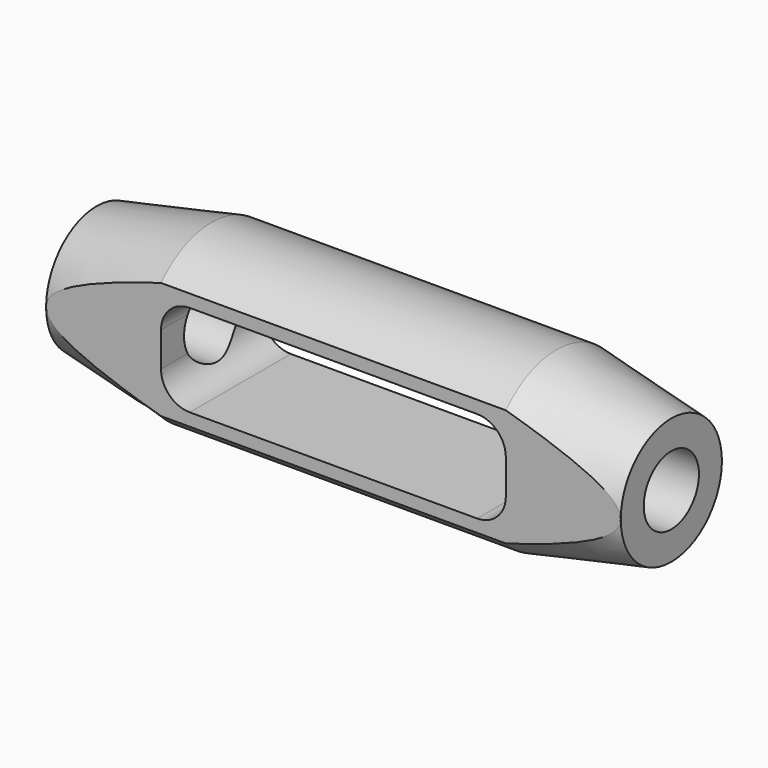
from build123d import *

# Parameters (mm, degrees)
SKETCH032_R      = 6
EXTRUDE029_DEPTH = 150
EXTRUDE028_DEPTH = 30
SKETCH030_W      = 15
SKETCH030_H      = 79.05159
SKETCH030_H_2    = 80
EXTRUDE027_DEPTH = 150


with BuildPart() as extrude032:
    # Sketch032 → Extrude029 (new body, symmetric)
    with BuildSketch(Plane.YZ):
        Circle(SKETCH032_R)
    extrude(amount=EXTRUDE029_DEPTH, both=True)


with BuildPart() as extrude031:
    # Sketch031 → Extrude028 (new body, symmetric)
    with BuildSketch(Plane.XZ):
        with BuildLine():
            Line((30, 3), (30, -3))
            ThreePointArc((25, -8), (28.535534, -6.535534), (30, -3))
            Line((25, -8), (-25, -8))
            ThreePointArc((-30, -3), (-28.535534, -6.535534), (-25, -8))
            Line((-30, -3), (-30, 3))
            ThreePointArc((-25, 8), (-28.535534, 6.535534), (-30, 3))
            Line((-25, 8), (25, 8))
            ThreePointArc((30, 3), (28.535534, 6.535534), (25, 8))
        make_face()
    extrude(amount=EXTRUDE028_DEPTH, both=True)


with BuildPart() as extrude030:
    # Sketch030 → Extrude027 (new body, symmetric)
    with BuildSketch(Plane.YZ):
        with Locations((-18.5, 0.159191)):
            Rectangle(SKETCH030_W, SKETCH030_H)
        with Locations((18.5, -0.315014)):
            Rectangle(SKETCH030_W, SKETCH030_H_2)
    extrude(amount=EXTRUDE027_DEPTH, both=True)


with BuildPart() as obj1:
    # Sketch029 → Revolve001 (revolve)
    with BuildSketch(Plane.XZ):
        Polygon((-50, 0), (-50, 11), (-30, 15), (30, 15), (50, 11), (50, 0), align=None)
    revolve(axis=Axis((-50, 0, 0), (-1, 0, 0)))

    # Cut009: cut Extrude030
    add(extrude030.part, mode=Mode.SUBTRACT)

    # Cut010: cut Extrude031
    add(extrude031.part, mode=Mode.SUBTRACT)

    # Cut011: cut Extrude032
    add(extrude032.part, mode=Mode.SUBTRACT)


with BuildPart() as obj1_1:
    # Cut011 placement: moved
    add(obj1.part.moved(Location((-530, 0, 0))))


solid = obj1_1.part
